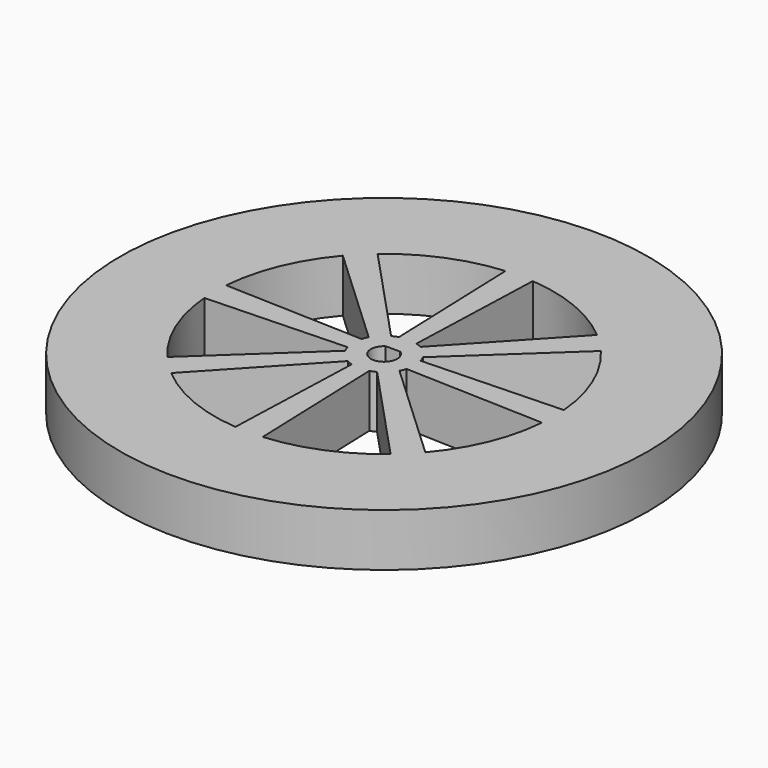
from build123d import *

# Parameters (mm, degrees)
F0_R     = 60
F1_DEPTH = 12
F3_DEPTH = 25


with BuildPart() as f1:
    # F0 (on Top) → F1 (new body)
    with BuildSketch(Plane.XY):
        Circle(F0_R)
        with BuildLine():
            ThreePointArc((1.658312, 2.5), (0, -3), (-1.658312, 2.5))
            Line((-1.658312, 2.5), (1.658312, 2.5))
        make_face(mode=Mode.SUBTRACT)
    extrude(amount=F1_DEPTH)

    # F2 (on face) → F3 (cut)
    with BuildSketch(Plane.XY.offset(12)):
        with BuildLine():
            ThreePointArc((-3.329203, 6.15763), (-2.678784, 6.467157), (-2, 6.708204))
            Line((-2, 6.708204), (-3.105812, 38.374522))
            ThreePointArc((-3.105812, 38.374522), (-14.733312, 35.569362), (-24.938744, 29.331026))
            Line((-24.938744, 29.331026), (-3.329203, 6.15763))
        make_face()
        with BuildLine():
            Line((3.105812, 38.374522), (2, 6.708204))
            ThreePointArc((2, 6.708204), (2.678784, 6.467157), (3.329203, 6.15763))
            Line((3.329203, 6.15763), (24.938744, 29.331026))
            ThreePointArc((24.938744, 29.331026), (14.733312, 35.569362), (3.105812, 38.374522))
        make_face()
        with BuildLine():
            Line((29.331026, 24.938744), (6.15763, 3.329203))
            ThreePointArc((6.15763, 3.329203), (6.467157, 2.678784), (6.708204, 2))
            Line((6.708204, 2), (38.374522, 3.105812))
            ThreePointArc((38.374522, 3.105812), (35.569362, 14.733312), (29.331026, 24.938744))
        make_face()
        with BuildLine():
            Line((38.374522, -3.105812), (6.708204, -2))
            ThreePointArc((6.708204, -2), (6.467157, -2.678784), (6.15763, -3.329203))
            Line((6.15763, -3.329203), (29.331026, -24.938744))
            ThreePointArc((29.331026, -24.938744), (35.569362, -14.733312), (38.374522, -3.105812))
        make_face()
        with BuildLine():
            Line((24.938744, -29.331026), (3.329203, -6.15763))
            ThreePointArc((3.329203, -6.15763), (2.678784, -6.467157), (2, -6.708204))
            Line((2, -6.708204), (3.105812, -38.374522))
            ThreePointArc((3.105812, -38.374522), (14.733312, -35.569362), (24.938744, -29.331026))
        make_face()
        with BuildLine():
            ThreePointArc((-6.708204, 2), (-6.467157, 2.678784), (-6.15763, 3.329203))
            Line((-6.15763, 3.329203), (-29.331026, 24.938744))
            ThreePointArc((-29.331026, 24.938744), (-35.569362, 14.733312), (-38.374522, 3.105812))
            Line((-38.374522, 3.105812), (-6.708204, 2))
        make_face()
        with BuildLine():
            Line((-3.105812, -38.374522), (-2, -6.708204))
            ThreePointArc((-2, -6.708204), (-2.678784, -6.467157), (-3.329203, -6.15763))
            Line((-3.329203, -6.15763), (-24.938744, -29.331026))
            ThreePointArc((-24.938744, -29.331026), (-14.733312, -35.569362), (-3.105812, -38.374522))
        make_face()
        with BuildLine():
            Line((-29.331026, -24.938744), (-6.15763, -3.329203))
            ThreePointArc((-6.15763, -3.329203), (-6.467157, -2.678784), (-6.708204, -2))
            Line((-6.708204, -2), (-38.374522, -3.105812))
            ThreePointArc((-38.374522, -3.105812), (-35.569362, -14.733312), (-29.331026, -24.938744))
        make_face()
    extrude(amount=-F3_DEPTH, mode=Mode.SUBTRACT)


solid = f1.part
